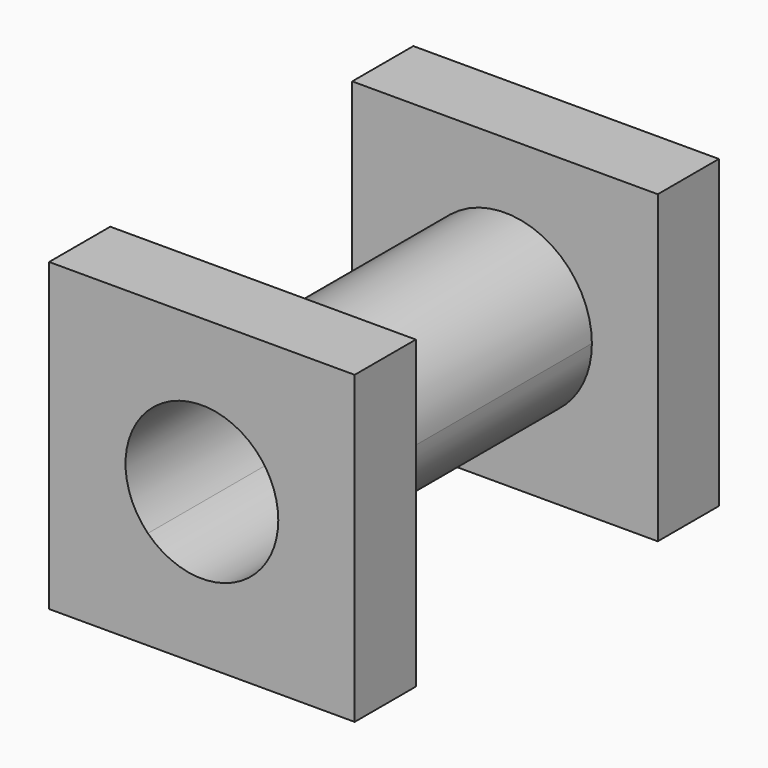
from build123d import *

# Parameters (mm, degrees)
F0_W     = 76.2
F0_H     = 76.2
F1_DEPTH = 19.05
F3_DEPTH = 76.2
F4_W     = 76.2
F4_H     = 76.2
F4_R     = 21.6703506802
F5_DEPTH = 19.05
F7_DEPTH = 114.301


with BuildPart() as f1:
    # F0 (on Front) → F1 (new body)
    with BuildSketch(Plane.XZ):
        with Locations((-23.25902578, 1.1713085696)):
            Rectangle(F0_W, F0_H)
    extrude(amount=-F1_DEPTH)

    # F2 (on face) → F3 (join)
    with BuildSketch(Plane.XZ):
        with BuildLine():
            Line((-38.5822776966, 16.4945604863), (-7.9357738633, -14.1519433471))
            ThreePointArc((-7.9357738633, -14.1519433471), (-3.2382323242, -7.1215756093), (-1.5886750997, 1.1713085696))
            ThreePointArc((-1.5886750997, 1.1713085696), (-14.9661416011, 21.1921020254), (-38.5822776966, 16.4945604863))
        make_face()
        with BuildLine():
            ThreePointArc((-38.5822776966, 16.4945604863), (-38.5822776966, -14.1519433471), (-7.9357738633, -14.1519433471))
            Line((-7.9357738633, -14.1519433471), (-38.5822776966, 16.4945604863))
        make_face()
    extrude(amount=F3_DEPTH)

    # F4 (on face) → F5 (join)
    with BuildSketch(Plane.XZ.offset(76.2)):
        with Locations((-22.6412163979, 0.4432164133)):
            Rectangle(F4_W, F4_H)
        with Locations((-23.25902578, 1.1713085696)):
            Circle(F4_R)
    extrude(amount=F5_DEPTH)

    # F6 (on face) → F7 (cut, through all)
    with BuildSketch(Plane.XZ.offset(95.25)):
        with BuildLine():
            ThreePointArc((-3.5912163979, 0.4432164133), (-5.0413113036, 7.7333357998), (-9.1708322163, 13.9136005949))
            Line((-9.1708322163, 13.9136005949), (-22.6412163979, 0.4432164133))
            Line((-22.6412163979, 0.4432164133), (-9.1708322163, -13.0271677683))
            ThreePointArc((-9.1708322163, -13.0271677683), (-5.0413113036, -6.8469029733), (-3.5912163979, 0.4432164133))
        make_face()
        with BuildLine():
            Line((-22.6412163979, 0.4432164133), (-9.1708322163, 13.9136005949))
            ThreePointArc((-9.1708322163, 13.9136005949), (-22.6412163979, 19.4932164133), (-36.1116005795, 13.9136005949))
            Line((-36.1116005795, 13.9136005949), (-22.6412163979, 0.4432164133))
        make_face()
        with BuildLine():
            Line((-9.1708322163, -13.0271677683), (-22.6412163979, 0.4432164133))
            Line((-22.6412163979, 0.4432164133), (-36.1116005795, -13.0271677683))
            ThreePointArc((-36.1116005795, -13.0271677683), (-22.6412163979, -18.6067835867), (-9.1708322163, -13.0271677683))
        make_face()
        with BuildLine():
            Line((-36.1116005795, -13.0271677683), (-22.6412163979, 0.4432164133))
            Line((-22.6412163979, 0.4432164133), (-36.1116005795, 13.9136005949))
            ThreePointArc((-36.1116005795, 13.9136005949), (-41.6912163979, 0.4432164133), (-36.1116005795, -13.0271677683))
        make_face()
    extrude(amount=-F7_DEPTH, mode=Mode.SUBTRACT)


solid = f1.part
